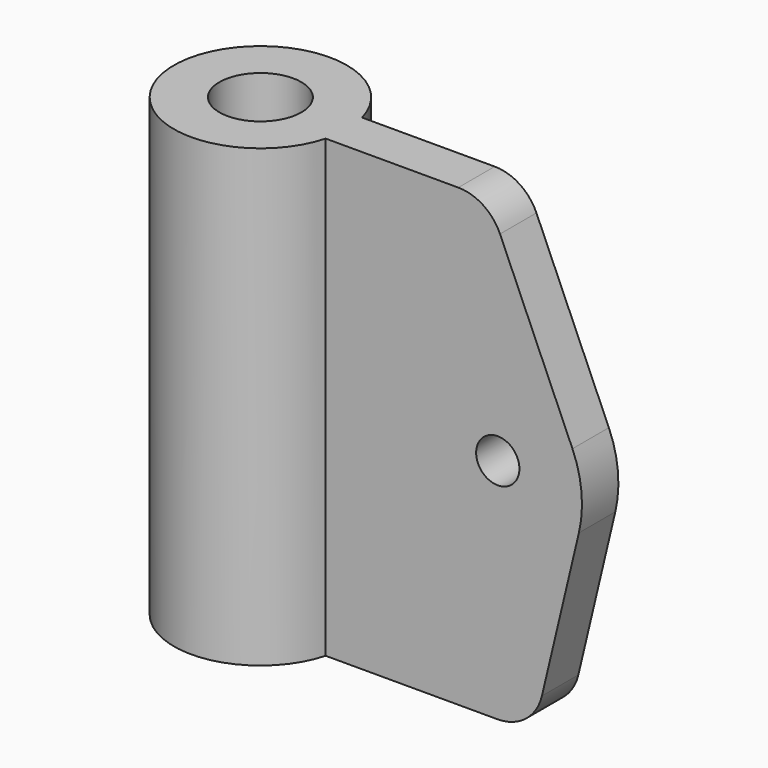
from build123d import *

# Parameters (mm, degrees)
F0_W     = 1.2968151346
F0_H     = 20
F0_W_2   = 0.7031848654
F0_R     = 0.95
F2_DEPTH = 1


with BuildPart() as f1:
    # F0 (on Front) → F1 (revolve)
    with BuildSketch(Plane.XZ):
        with Locations((-12.7275561206, 21.3498084247)):
            Rectangle(F0_W, F0_H)
        with Locations((-11.7275561206, 21.3498084247)):
            Rectangle(F0_W_2, F0_H)
    revolve(axis=Axis((-15.1759636879, 0, 21.4413572103), (0, 0, -1)))

    # F0 (on Front) → F2 (join, symmetric)
    with BuildSketch(Plane.XZ):
        with Locations((-11.7275561206, 21.3498084247)):
            Rectangle(F0_W_2, F0_H)
        with BuildLine():
            Line((-5.6838793599, 31.3498084247), (-11.3759636879, 31.3498084247))
            Line((-11.3759636879, 31.3498084247), (-11.3759636879, 11.3498084247))
            Line((-11.3759636879, 11.3498084247), (-3.9564480013, 11.3498084247))
            ThreePointArc((-3.9564480013, 11.3498084247), (-2.7164166971, 11.7806295424), (-2.0106170654, 12.8874860601))
            Line((-2.0106170654, 12.8874860601), (-0.386721159, 19.7221692442))
            ThreePointArc((-0.386721159, 19.7221692442), (-0.2713600171, 21.3254265154), (-0.6706739378, 22.8824398305))
            Line((-0.6706739378, 22.8824398305), (-3.8516295355, 30.1515942946))
            ThreePointArc((-3.8516295355, 30.1515942946), (-4.5892496827, 31.0236620234), (-5.6838793599, 31.3498084247))
        make_face()
        with Locations((-3.95, 21.3498084247)):
            Circle(F0_R, mode=Mode.SUBTRACT)
    extrude(amount=F2_DEPTH, both=True)


solid = f1.part
